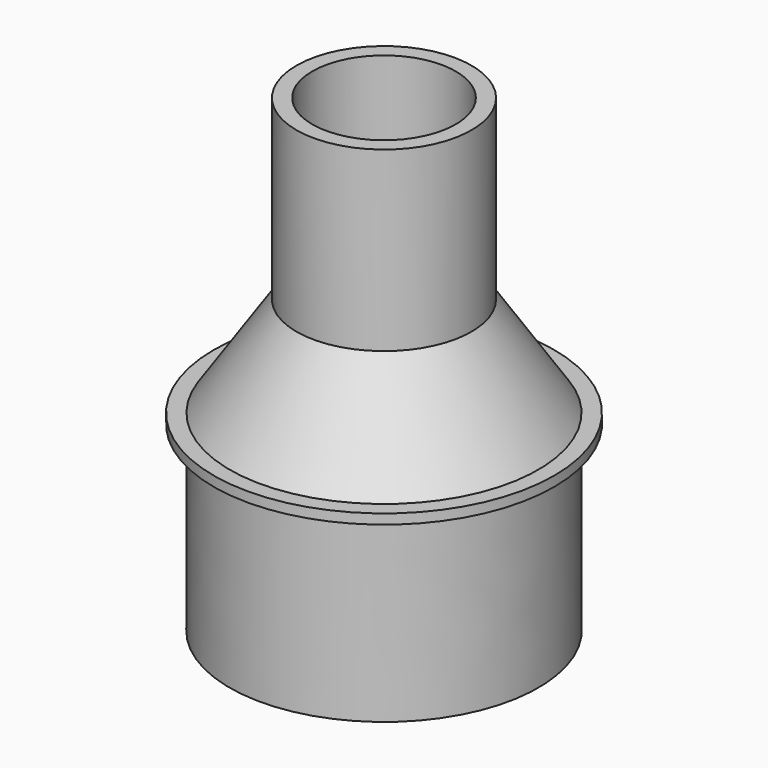
from build123d import *


with BuildPart() as f1:
    # F0 (on Front) → F1 (revolve)
    with BuildSketch(Plane.XZ):
        Polygon((-22.744795, 113.41355), (-27.744795, 113.41355), (-27.744795, 57.170775), (-48.900284, 25.529031), (-48.90288, 22.396343), (-48.950677, -35.268601), (-43.950677, -35.268601), (-43.950677, 25.453659), (-22.744795, 57.170775), align=None)
        Polygon((-48.90288, 22.396343), (-48.900284, 25.529031), (-53.960774, 25.533225), (-53.960774, 22.396343), align=None)
    revolve(axis=Axis((0, 0, 37.688918), (0, 0, 1)))


solid = f1.part
